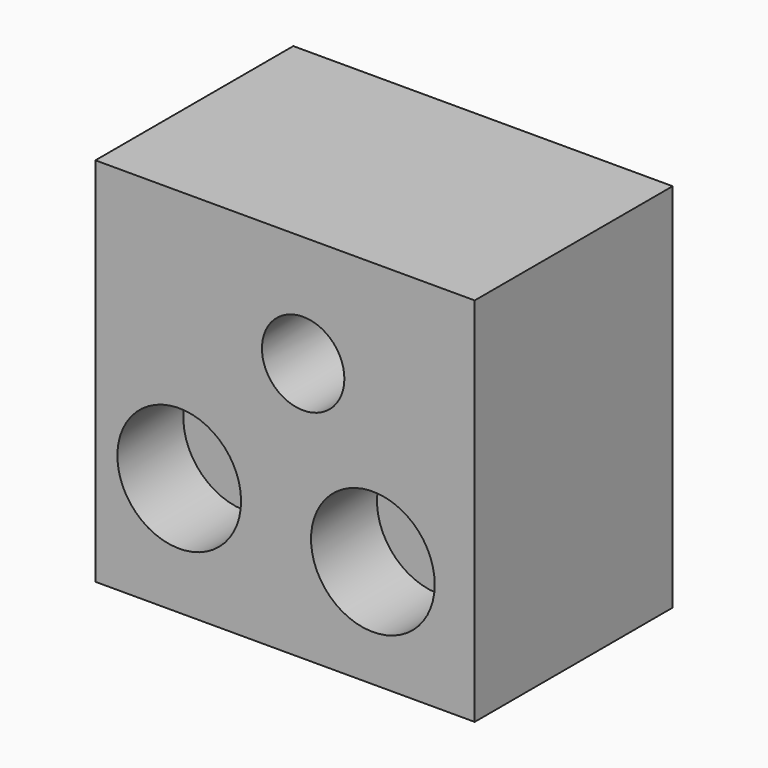
from build123d import *

# Parameters (mm, degrees)
F0_W     = 116.84
F0_H     = 114.3
F1_DEPTH = 76.2
F2_R     = 12.7
F2_R_2   = 19.05
F3_DEPTH = 25.4


with BuildPart() as f1:
    # F0 (on Front) → F1 (new body)
    with BuildSketch(Plane.XZ):
        with Locations((7.62, -19.05)):
            Rectangle(F0_W, F0_H)
    extrude(amount=F1_DEPTH)

    # F2 (on face) → F3 (cut)
    with BuildSketch(Plane.XZ.offset(76.2)):
        with Locations((13.195288, 3.787711)):
            Circle(F2_R)
        with Locations((34.671844, -42.966176)):
            Circle(F2_R_2)
        with Locations((-24.978266, -39.769248)):
            Circle(F2_R_2)
    extrude(amount=-F3_DEPTH, mode=Mode.SUBTRACT)


solid = f1.part
